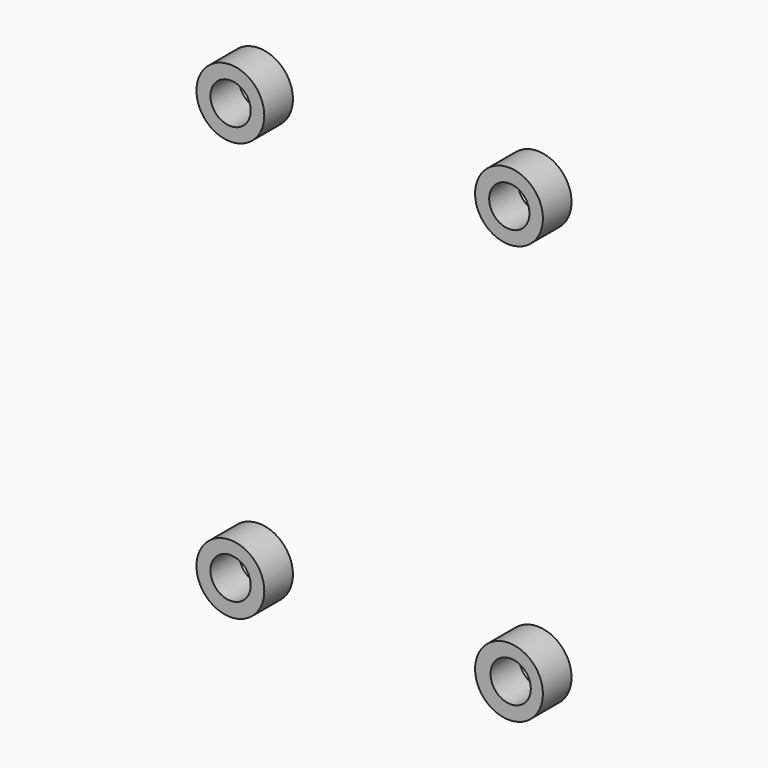
from build123d import *

# Parameters (mm, degrees)
F0_R     = 6.35
F1_DEPTH = 6.7056
F5_R     = 3.772287
F5_R_2   = 3.77229
F5_R_3   = 3.772288
F5_R_4   = 3.772294
F6_DEPTH = 15.24


with BuildPart() as f1:
    # F0 (on Front) → F1 (new body)
    with BuildSketch(Plane.XZ):
        with Locations((-26.085133, 39.186187)):
            Circle(F0_R)
    extrude(amount=F1_DEPTH)


with BuildPart() as f2_1:
    # F2: instance of F1
    add(f1.part.mirror(Plane.YZ))


with BuildPart() as f3_1:
    # F3: instance of F1
    add(f1.part.mirror(Plane.XY))


with BuildPart() as f4_1:
    # F4: instance of F3_1
    add(f3_1.part.mirror(Plane.YZ))


with BuildPart() as f6_tool:
    # F5 (on Front) → F6 (new body)
    with BuildSketch(Plane.XZ):
        with Locations((-26.045823, 39.171409)):
            Circle(F5_R)
        with Locations((26.147064, 39.171409)):
            Circle(F5_R_2)
        with Locations((-26.045823, -39.075501)):
            Circle(F5_R_3)
        with Locations((26.401937, -39.075501)):
            Circle(F5_R_4)
    extrude(amount=F6_DEPTH)


with BuildPart() as f1_1:
    add(f1.part)

    # F6: cut by f6_tool
    add(f6_tool.part, mode=Mode.SUBTRACT)


with BuildPart() as f2_1_1:
    add(f2_1.part)

    # F6: cut by f6_tool
    add(f6_tool.part, mode=Mode.SUBTRACT)


with BuildPart() as f3_1_1:
    add(f3_1.part)

    # F6: cut by f6_tool
    add(f6_tool.part, mode=Mode.SUBTRACT)


with BuildPart() as f4_1_1:
    add(f4_1.part)

    # F6: cut by f6_tool
    add(f6_tool.part, mode=Mode.SUBTRACT)


solid = Compound([f1_1.part, f2_1_1.part, f3_1_1.part, f4_1_1.part])
